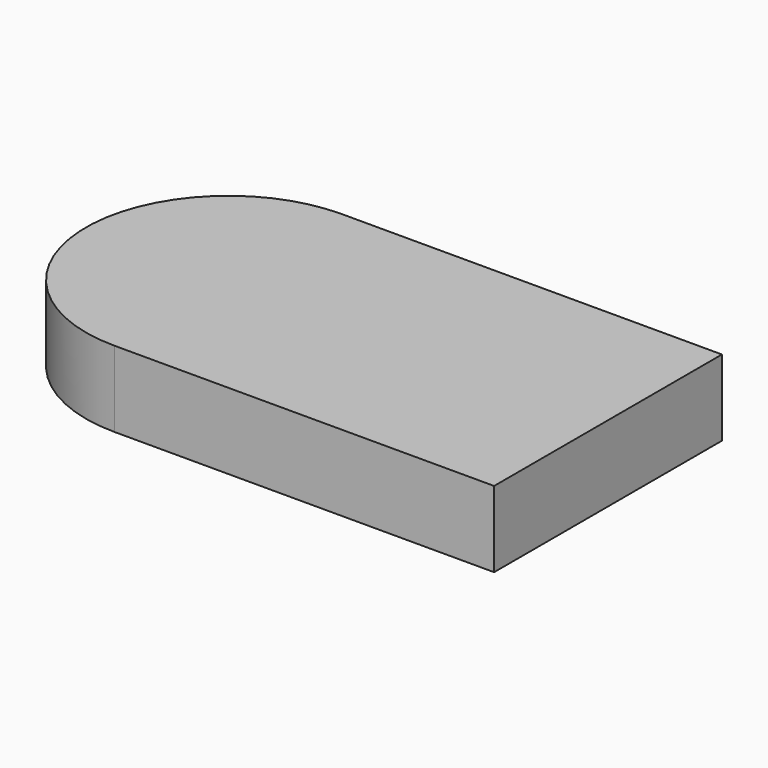
from build123d import *

# Parameters (mm, degrees)
F1_DEPTH = 80


with BuildPart() as f1:
    # F0 (on Top) → F1 (new body)
    with BuildSketch(Plane.XY):
        with BuildLine():
            Line((-200, -150), (200, -150))
            Line((200, -150), (200, 150))
            Line((200, 150), (-200, 150))
            ThreePointArc((-200, 150), (-93.933982822, 106.066017178), (-50, 0))
            ThreePointArc((-50, 0), (-93.933982822, -106.066017178), (-200, -150))
        make_face()
        with BuildLine():
            ThreePointArc((-200, 150), (-350, 0), (-200, -150))
            Line((-200, -150), (-200, 150))
        make_face()
        with BuildLine():
            Line((-200, 150), (-200, -150))
            ThreePointArc((-200, -150), (-93.933982822, -106.066017178), (-50, 0))
            ThreePointArc((-50, 0), (-93.933982822, 106.066017178), (-200, 150))
        make_face()
    extrude(amount=F1_DEPTH)


solid = f1.part
